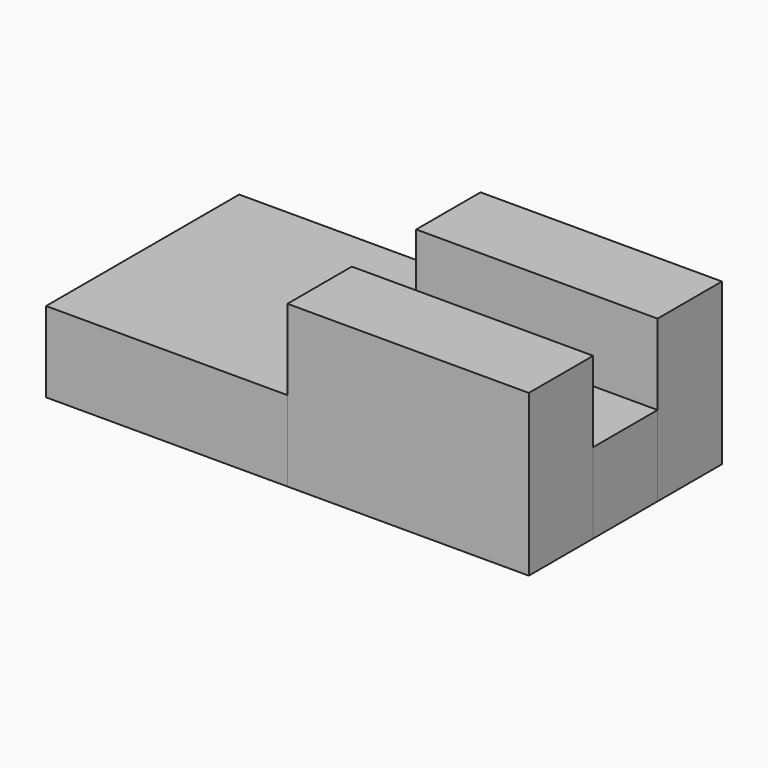
from build123d import *

# Parameters (mm, degrees)
F0_W     = 76.2
F0_H     = 25.4
F1_DEPTH = 50.8
F2_DEPTH = 25.4


with BuildPart() as f1:
    # F0 (on Top) → F1 (new body)
    with BuildSketch(Plane.XY):
        with Locations((34.566889, 5.315607)):
            Rectangle(F0_W, F0_H)
        with Locations((34.566889, -45.484393)):
            Rectangle(F0_W, F0_H)
    extrude(amount=F1_DEPTH)


with BuildPart() as f2:
    # F0 (on Top) → F2 (new body)
    with BuildSketch(Plane.XY):
        Polygon((-3.533111, 18.015607), (-79.733111, 18.015607), (-79.733111, -58.184393), (-3.533111, -58.184393), (-3.533111, -32.784393), (-3.533111, -7.384393), align=None)
        with Locations((34.566889, -20.084393)):
            Rectangle(F0_W, F0_H)
    extrude(amount=F2_DEPTH)


solid = Compound([f1.part, f2.part])
